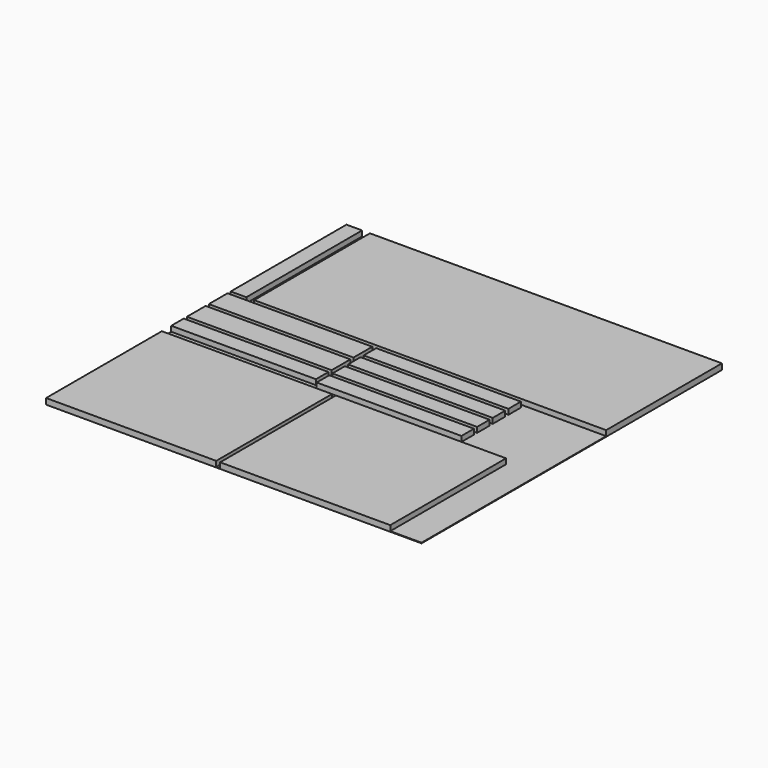
from build123d import *

# Parameters (mm, degrees)
F0_W     = 1219.2
F0_H     = 1219.2
F1_DEPTH = 19.05
F2_W     = 469.9
F2_H     = 50.8
F3_DEPTH = 17.145


with BuildPart() as f1:
    # F0 (on Top) → F1 (new body)
    with BuildSketch(Plane.XY):
        Rectangle(F0_W, F0_H)
    extrude(amount=F1_DEPTH)

    # F2 (on face) → F3 (cut)
    with BuildSketch(Plane.XY.offset(19.05)):
        Polygon((-533.4, 139.7), (-533.4, 609.6), (-558.8, 609.6), (-558.8, 139.7), (-609.6, 139.7), (-609.6, 127), (-139.7, 127), (-139.7, 50.8), (-609.6, 50.8), (-609.6, 38.1), (-139.7, 38.1), (-139.7, -38.1), (-609.6, -38.1), (-609.6, -50.8), (-139.7, -50.8), (-139.7, -101.6), (-609.6, -101.6), (-609.6, -139.7), (-57.15, -139.7), (-57.15, -609.6), (-44.45, -609.6), (-44.45, -139.7), (508, -139.7), (508, -609.6), (609.6, -609.6), (609.6, 139.7), align=None)
        with Locations((107.95, -88.9)):
            Rectangle(F2_W, F2_H, mode=Mode.SUBTRACT)
        with Locations((107.95, -25.4)):
            Rectangle(F2_W, F2_H, mode=Mode.SUBTRACT)
        with Locations((107.95, 38.1)):
            Rectangle(F2_W, F2_H, mode=Mode.SUBTRACT)
        with Locations((107.95, 101.6)):
            Rectangle(F2_W, F2_H, mode=Mode.SUBTRACT)
    extrude(amount=-F3_DEPTH, mode=Mode.SUBTRACT)


solid = f1.part
